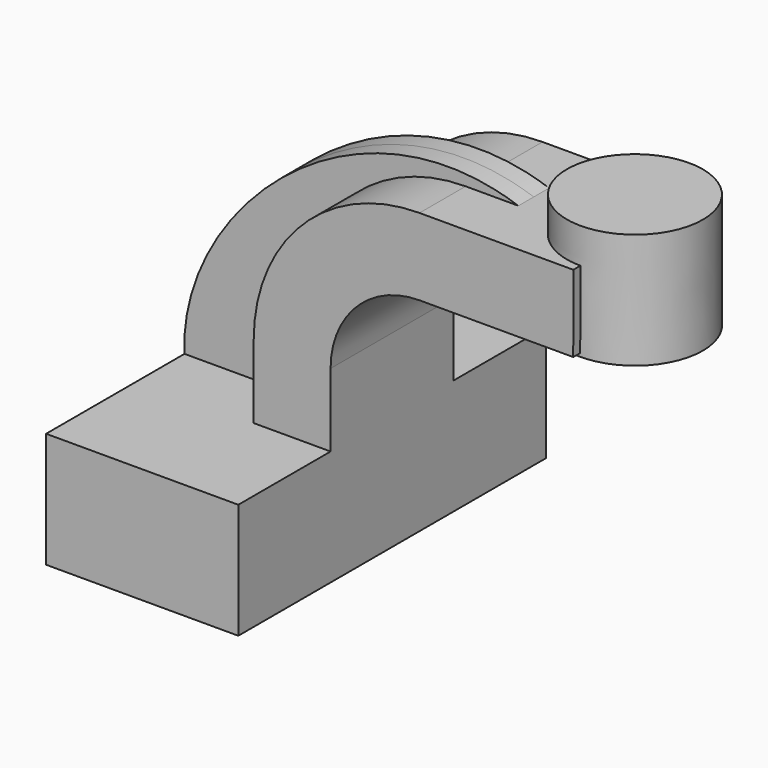
from build123d import *

# Parameters (mm, degrees)
F1_DEPTH = 63.5
F2_DEPTH = 25.4
F3_DEPTH = 6.35


with BuildPart() as f1:
    # F0 (on Front) → F1 (new body, symmetric)
    with BuildSketch(Plane.XZ):
        Polygon((-31.75, -19.05), (31.75, -19.05), (31.75, 19.05), (6.35, 19.05), (-31.75, 19.05), align=None)
    extrude(amount=F1_DEPTH, both=True)

    # F0 (on Front) → F2 (join, symmetric)
    with BuildSketch(Plane.XZ):
        with BuildLine():
            Line((6.35, 19.05), (31.75, 19.05))
            Line((31.75, 19.05), (31.75, 43.1967032691))
            ThreePointArc((31.75, 43.1967032691), (40.3541311515, 63.9689133875), (61.1263412699, 72.573044539))
            Line((61.1263412699, 72.573044539), (78.5394700097, 72.573044539))
            Line((78.5394700097, 72.573044539), (78.5394700097, 97.973044539))
            Line((78.5394700097, 97.973044539), (61.1263412699, 97.973044539))
            ThreePointArc((61.1263412699, 97.973044539), (22.3936189094, 81.9294256296), (6.35, 43.1967032691))
            Line((6.35, 43.1967032691), (6.35, 19.05))
        make_face()
        Polygon((111.9425526827, 97.973044539), (78.5394700097, 97.973044539), (78.5394700097, 72.573044539), (111.903113532, 72.573044539), align=None)
    extrude(amount=F2_DEPTH, both=True)

    # F0 (on Front) → F3 (join, symmetric)
    with BuildSketch(Plane.XZ):
        with BuildLine():
            add(Edge.make_bspline(
                [(-31.75, 19.05), (-33.8824763894, 62.8609061241), (23.62857759, 116.8053820729), (78.5394700097, 97.973044539)],
                knots=[0, 0, 0, 0, 135.6193723415, 135.6193723415, 135.6193723415, 135.6193723415], degree=3))
            Line((-31.75, 19.05), (6.35, 19.05))
            Line((6.35, 19.05), (6.35, 43.1967032691))
            ThreePointArc((6.35, 43.1967032691), (22.3936189094, 81.9294256296), (61.1263412699, 97.973044539))
            Line((61.1263412699, 97.973044539), (78.5394700097, 97.973044539))
        make_face()
    extrude(amount=F3_DEPTH, both=True)

    # F0 (on Front) → F4 (revolve)
    with BuildSketch(Plane.XZ):
        Polygon((111.9605090454, 109.5374825459), (111.9425526827, 97.973044539), (111.903113532, 72.573044539), (111.9013503194, 71.4374825459), (134.4194700097, 71.4374825459), (134.4194700097, 109.5374825459), align=None)
    revolve(axis=Axis((111.9309296824, 0, 90.4874825459), (0.0015527206, 0, 0.9999987945)))


solid = f1.part
